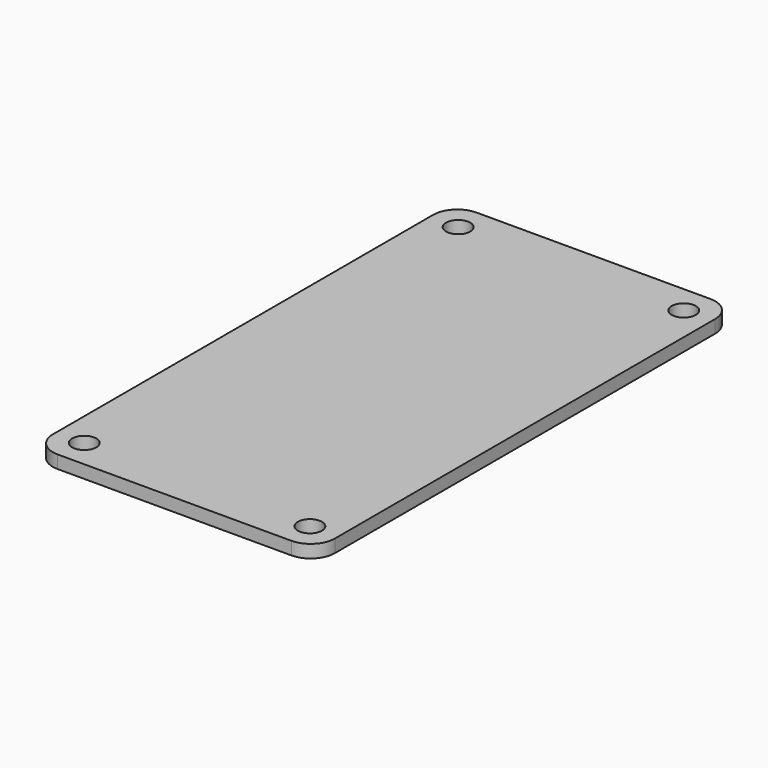
from build123d import *

# Parameters (mm, degrees)
F0_R     = 1.5
F1_DEPTH = 1.6


with BuildPart() as f1:
    # F0 (on Top) → F1 (new body)
    with BuildSketch(Plane.XY):
        with BuildLine():
            ThreePointArc((17.5, 29.5), (16.62132, 31.62132), (14.5, 32.5))
            Line((14.5, 32.5), (-14.5, 32.5))
            ThreePointArc((-14.5, 32.5), (-16.62132, 31.62132), (-17.5, 29.5))
            Line((-17.5, 29.5), (-17.5, -29.5))
            ThreePointArc((-17.5, -29.5), (-16.62132, -31.62132), (-14.5, -32.5))
            Line((-14.5, -32.5), (14.5, -32.5))
            ThreePointArc((14.5, -32.5), (16.62132, -31.62132), (17.5, -29.5))
            Line((17.5, -29.5), (17.5, 29.5))
        make_face()
        with Locations((-14, -29)):
            Circle(F0_R, mode=Mode.SUBTRACT)
        with Locations((14, -29)):
            Circle(F0_R, mode=Mode.SUBTRACT)
        with Locations((-14, 29)):
            Circle(F0_R, mode=Mode.SUBTRACT)
        with Locations((14, 29)):
            Circle(F0_R, mode=Mode.SUBTRACT)
    extrude(amount=-F1_DEPTH)


solid = f1.part
